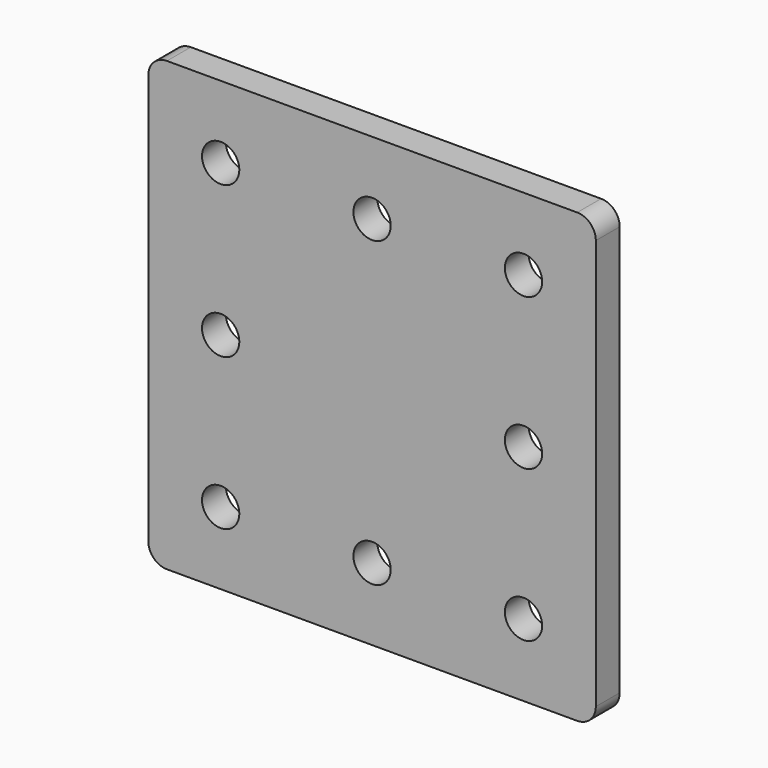
from build123d import *

# Parameters (mm, degrees)
F0_W     = 60
F0_H     = 60
F1_DEPTH = 4
F2_D     = 5
F3_R     = 2.5


with BuildPart() as f1:
    # F0 (on Front) → F1 (new body)
    with BuildSketch(Plane.XZ):
        Rectangle(F0_W, F0_H)
    extrude(amount=F1_DEPTH)

    # F2 (through all)
    with Locations(Plane(origin=(0, 0, 0), x_dir=(1, 0, 0), z_dir=(0, 1, 0))):
        with Locations((-20.3, -20.3), (20.3, -20.3), (20.3, 20.3), (-20.3, 20.3), (0, 20.3), (20.3, 0), (0, -20.3), (-20.3, 0)):
            Hole(F2_D / 2)

    # F3
    f3_edges = [f1.edges().sort_by_distance(p)[0] for p in [
        (30, -2, 30),
        (30, -2, -30),
        (-30, -2, -30),
        (-30, -2, 30),
    ]]
    fillet(f3_edges, radius=F3_R)


solid = f1.part
